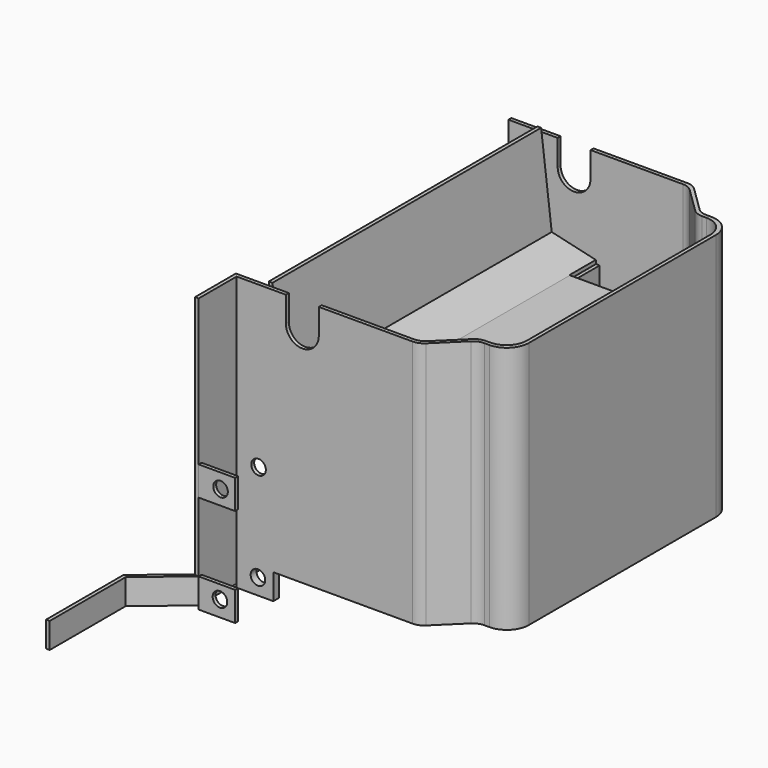
from build123d import *

# Parameters (mm, degrees)
F7_START  = 35
F7_DEPTH  = 5
F8_START  = 5
F8_DEPTH  = 35
F11_DEPTH = 200
F13_DEPTH = 369.76
F15_DEPTH = 45
F17_DEPTH = 45
F18_DEPTH = 45
F19_DEPTH = 45
F20_DEPTH = 335
F22_W     = 50.1510878829
F22_H     = 10
F23_DEPTH = 35
F24_W     = 5
F24_H     = 35
F24_H_2   = 5
F25_DEPTH = 50
F26_R     = 10
F27_DEPTH = 255.001
F29_DEPTH = 335
F30_W     = 5
F30_H     = 40
F31_DEPTH = 50
F32_R     = 10
F33_DEPTH = 780.001
F35_DEPTH = 715.001


with BuildPart() as f7:
    # F5 (on face) → F7 (new body)
    with BuildSketch(Plane.XY.offset(F7_START)):
        with BuildLine():
            Line((536.0502983732, 235), (295.2061215611, 235))
            Line((295.2061215611, 235), (295.2061215611, -235))
            Line((295.2061215611, -235), (536.0502983732, -235))
            ThreePointArc((536.0502983732, -235), (543.6023308733, -233.5193629782), (550.0361814825, -229.2966805117))
            Line((550.0361814825, -229.2966805117), (584.3760616397, -195.7033194883))
            ThreePointArc((584.3760616397, -195.7033194883), (590.8099122489, -191.4806370218), (598.361944749, -190))
            Line((598.361944749, -190), (605.2061215611, -190))
            ThreePointArc((605.2061215611, -190), (626.4193249967, -181.2132034356), (635.2061215611, -160))
            Line((635.2061215611, -160), (635.2061215611, 160))
            ThreePointArc((635.2061215611, 160), (626.4193249967, 181.2132034356), (605.2061215611, 190))
            Line((605.2061215611, 190), (598.361944749, 190))
            ThreePointArc((598.361944749, 190), (590.8099122489, 191.4806370218), (584.3760616397, 195.7033194883))
            Line((584.3760616397, 195.7033194883), (550.0361814825, 229.2966805117))
            ThreePointArc((550.0361814825, 229.2966805117), (543.6023308733, 233.5193629782), (536.0502983732, 235))
        make_face()
    extrude(amount=F7_DEPTH)

    # F10 (on face) → F11 (join)
    with BuildSketch(Plane.XY.offset(40)):
        Polygon((420.2061215611, 230), (415.2061215611, 230), (415.2061215611, 179.7606539726), (495.2061215611, 179.7606539726), (495.2061215611, -180), (415.2061215611, -180), (415.2061215611, -230), (420.2061215611, -230), (420.2061215611, -185), (500.2061215611, -185), (500.2061215611, 184.7606539726), (420.2061215611, 184.7606539726), align=None)
    extrude(amount=F11_DEPTH)



with BuildPart() as f8:
    # F6 (on face) → F8 (new body)
    with BuildSketch(Plane.XY.offset(F8_START)):
        Polygon((235.3396033727, 350), (235.3396033727, 480), (230.3396033727, 480), (230.3396033727, 347.6614641333), (290.2061215611, 297.6614641333), (290.2061215611, -297.6614641333), (230.3396033727, -347.6614641333), (230.3396033727, -480), (235.3396033727, -480), (235.3396033727, -350), (295.2061215611, -300), (295.2061215611, 300), align=None)
    extrude(amount=F8_DEPTH)


with BuildPart() as f13:
    # F12 (on face) → F13 (new body)
    with BuildSketch(Plane.XZ.offset(185)):
        Polygon((415.077149868, 240), (500.2061215611, 240), (500.2061215611, 245), (415.6496353582, 245), (354.7629135856, 259.1279170394), (340.264830222, 380.0120656257), (335.2289983824, 380.0120656257), (350.2161502838, 255.0500929356), align=None)
    extrude(amount=-F13_DEPTH)

    # F14 (on face) → F15 (join)
    with BuildSketch(Plane.XZ.offset(185)):
        Polygon((354.7629135856, 259.1279170394), (350.2161502838, 255.0500929356), (415.077149868, 240), (415.077149868, 245.1328372965), align=None)
    extrude(amount=F15_DEPTH)

    # F16 (on face) → F17 (join)
    with BuildSketch(Plane(origin=(0, 184.76, 0), x_dir=(-1, 0, 0), z_dir=(0, 1, 0))):
        Polygon((-415.077149868, 245.1328372965), (-415.077149868, 240), (-350.2161502838, 255.0500929356), (-354.7629135856, 259.1279170394), align=None)
    extrude(amount=F17_DEPTH)

    # F18 (add): a face of the model
    f18_faces = [f13.faces().sort_by_distance(p)[0] for p in [
        (345.1049776592, -185, 318.5448987695),
    ]]
    extrude(f18_faces, amount=F18_DEPTH)

    # F19 (add): a face of the model
    f19_faces = [f13.faces().sort_by_distance(p)[0] for p in [
        (345.1049776592, 184.76, 318.5448987695),
    ]]
    extrude(f19_faces, amount=F19_DEPTH)


with BuildPart() as f7_1:
    add(f7.part)

    add(f8.part)  # F20 merges F8

    add(f13.part)  # F20 merges F13
    # F9 (on face) → F20 (join)
    with BuildSketch(Plane.XY.offset(40)):
        with BuildLine():
            Line((536.0502983732, 235), (295.2061215611, 235))
            Line((295.2061215611, 235), (295.2061215611, 230))
            Line((295.2061215611, 230), (534.0113425762, 230))
            ThreePointArc((534.0113425762, 230), (541.5633750764, 228.5193629782), (547.9972256855, 224.2966805117))
            Line((547.9972256855, 224.2966805117), (582.3371058428, 190.7033194883))
            ThreePointArc((582.3371058428, 190.7033194883), (588.7709564519, 186.4806370218), (596.322988952, 185))
            Line((596.322988952, 185), (602.2061215611, 185))
            ThreePointArc((602.2061215611, 185), (622.0051114343, 176.7989898732), (630.2061215611, 157))
            Line((630.2061215611, 157), (630.2061215611, -157))
            ThreePointArc((630.2061215611, -157), (622.0051114343, -176.7989898732), (602.2061215611, -185))
            Line((602.2061215611, -185), (596.322988952, -185))
            ThreePointArc((596.322988952, -185), (588.7709564519, -186.4806370218), (582.3371058428, -190.7033194883))
            Line((582.3371058428, -190.7033194883), (547.9972256855, -224.2966805117))
            ThreePointArc((547.9972256855, -224.2966805117), (541.5633750764, -228.5193629782), (534.0113425762, -230))
            Line((534.0113425762, -230), (295.2061215611, -230))
            Line((295.2061215611, -230), (295.2061215611, -235))
            Line((295.2061215611, -235), (536.0502983732, -235))
            ThreePointArc((536.0502983732, -235), (543.6023308733, -233.5193629782), (550.0361814825, -229.2966805117))
            Line((550.0361814825, -229.2966805117), (584.3760616397, -195.7033194883))
            ThreePointArc((584.3760616397, -195.7033194883), (590.8099122489, -191.4806370218), (598.361944749, -190))
            Line((598.361944749, -190), (605.2061215611, -190))
            ThreePointArc((605.2061215611, -190), (626.4193249967, -181.2132034356), (635.2061215611, -160))
            Line((635.2061215611, -160), (635.2061215611, 160))
            ThreePointArc((635.2061215611, 160), (626.4193249967, 181.2132034356), (605.2061215611, 190))
            Line((605.2061215611, 190), (598.361944749, 190))
            ThreePointArc((598.361944749, 190), (590.8099122489, 191.4806370218), (584.3760616397, 195.7033194883))
            Line((584.3760616397, 195.7033194883), (550.0361814825, 229.2966805117))
            ThreePointArc((550.0361814825, 229.2966805117), (543.6023308733, 233.5193629782), (536.0502983732, 235))
        make_face()
    extrude(amount=F20_DEPTH)

    # F22 (on face) → F23 (join)
    with BuildSketch(Plane(origin=(0, 0, 35), x_dir=(1, 0, 0), z_dir=(0, 0, -1))):
        with Locations((320.2816655026, 230)):
            Rectangle(F22_W, F22_H)
    extrude(amount=F23_DEPTH)

    # F24 (on face) → F25 (join)
    with BuildSketch(Plane.YZ.offset(295.2061215611)):
        with Locations((-297.5, 22.5)):
            Rectangle(F24_W, F24_H)
        with Locations((-297.5, 2.5)):
            Rectangle(F24_W, F24_H_2)
    extrude(amount=F25_DEPTH)

    # F26 (on face) → F27 (cut, through all)
    with BuildSketch(Plane(origin=(0, -225, 0), x_dir=(-1, 0, 0), z_dir=(0, 1, 0))):
        with Locations((-324.3654668331, 21.796002984)):
            Circle(F26_R)
    extrude(amount=-F27_DEPTH, mode=Mode.SUBTRACT)

    # F28 (on face) → F29 (join)
    with BuildSketch(Plane.XY.offset(40)):
        Polygon((295.2061215611, -235), (295.2061215611, -230), (290.2061215611, -230), (290.2061215611, -297.6614641333), (290.2061215611, -300.0012075878), (295.2046756796, -300.0012075878), (295.2061215611, -300), (295.2061215611, -295), align=None)
    extrude(amount=F29_DEPTH)

    # F30 (on face) → F31 (join)
    with BuildSketch(Plane.YZ.offset(295.2061215611)):
        with Locations((-297.5, 155)):
            Rectangle(F30_W, F30_H)
    extrude(amount=F31_DEPTH)

    # F32 (on face) → F33 (cut, through all)
    with BuildSketch(Plane.XZ.offset(300)):
        with Locations((325.2061215611, 155)):
            Circle(F32_R)
    extrude(amount=-F33_DEPTH, mode=Mode.SUBTRACT)

    # F34 (on face) → F35 (cut, through all)
    with BuildSketch(Plane.XZ.offset(235)):
        with BuildLine():
            Line((362.7061215611, 375), (362.7061215611, 340))
            ThreePointArc((362.7061215611, 340), (385.2061215611, 317.5), (407.7061215611, 340))
            Line((407.7061215611, 340), (407.7061215611, 375))
            Line((407.7061215611, 375), (362.7061215611, 375))
        make_face()
    extrude(amount=-F35_DEPTH, mode=Mode.SUBTRACT)


solid = f7_1.part
